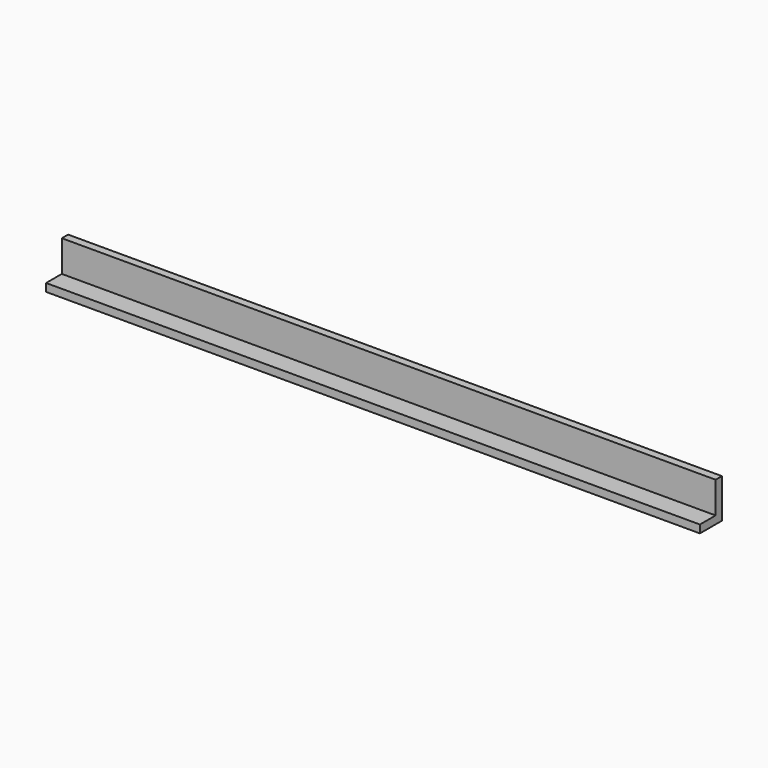
from build123d import *

# Parameters (mm, degrees)
F1_DEPTH = 416
F2_R     = 5
F3_DEPTH = 5


with BuildPart() as f1:
    # F0 (on Right) → F1 (new body, symmetric)
    with BuildSketch(Plane.YZ):
        Polygon((-35, 0), (0, 0), (0, 50), (-10, 50), (-10, 10), (-35, 10), align=None)
    extrude(amount=F1_DEPTH, both=True)

    # F2 (on face) → F3 (cut)
    with BuildSketch(Plane(origin=(0, 0, 0), x_dir=(1, 0, 0), z_dir=(0, 0, -1))):
        with Locations((-361, 20)):
            Circle(F2_R)
    extrude(amount=-F3_DEPTH, mode=Mode.SUBTRACT)


solid = f1.part
